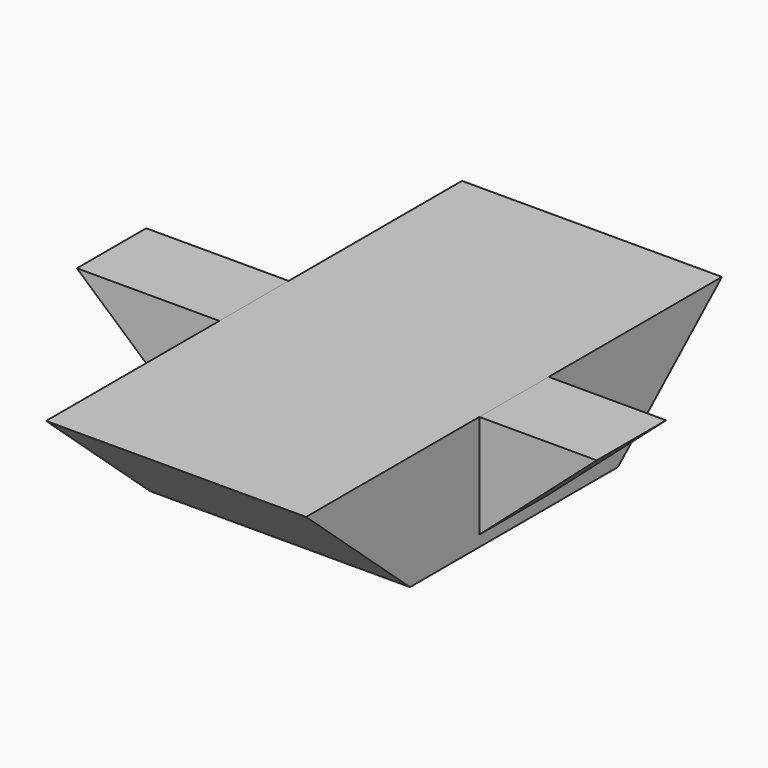
from build123d import *

# Parameters (mm, degrees)
F1_DEPTH = 50.8
F3_DEPTH = 152.4


with BuildPart() as f1:
    # F0 (on Front) → F1 (new body, symmetric)
    with BuildSketch(Plane.XZ):
        Polygon((0, 134.4041666021), (-319.4691668987, 134.4041666021), (-167.0691668987, 0), (0, 0), align=None)
        Polygon((290.1308331013, 134.4041666021), (0, 134.4041666021), (0, 0), (137.7308331013, 0), align=None)
    extrude(amount=F1_DEPTH, both=True)

    # F2 (on Right) → F3 (join, symmetric)
    with BuildSketch(Plane.YZ):
        Polygon((-152.4, 0), (0, 0), (0, 134.4041762), (-304.8, 134.4041762), align=None)
        Polygon((0, 134.4041762), (0, 0), (152.4, 0), (304.8, 134.4041762), align=None)
    extrude(amount=F3_DEPTH, both=True)


solid = f1.part
